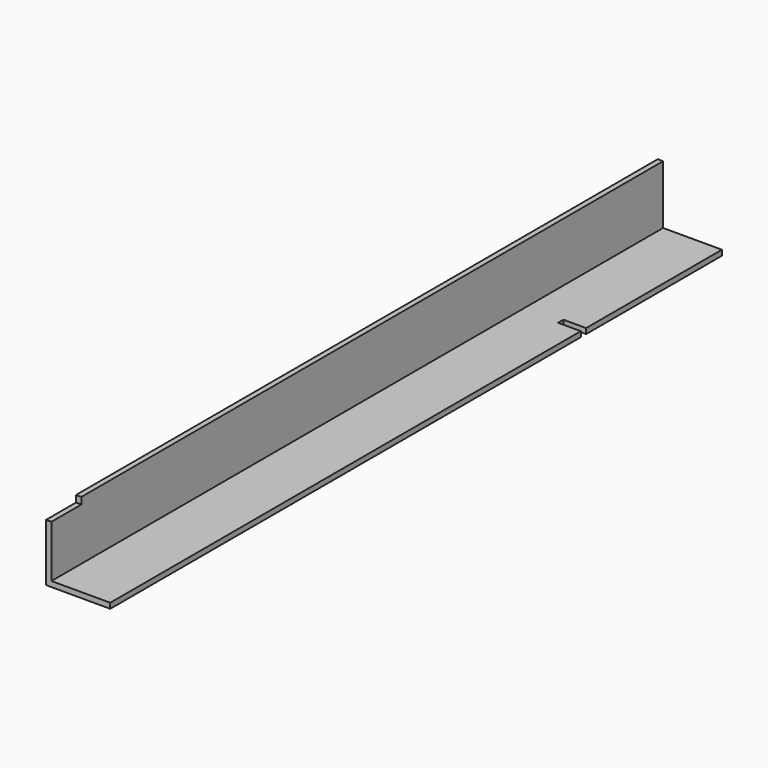
from build123d import *

# Parameters (mm, degrees)
F1_DEPTH = 454.025
F3_W     = 22.225
F3_H     = 3.96875
F4_DEPTH = 25.4
F5_W     = 13.49375
F5_H     = 3.96875
F6_DEPTH = 25.4


with BuildPart() as f1:
    # F0 (on Front) → F1 (new body)
    with BuildSketch(Plane.XZ):
        Polygon((-18.553972, 20.450408), (-21.728972, 20.450408), (-21.728972, -17.649592), (16.371028, -17.649592), (16.371028, -14.474592), (-18.553972, -14.474592), align=None)
    extrude(amount=F1_DEPTH)

    # F3 (on face) → F4 (cut)
    with BuildSketch(Plane(origin=(-21.728972, 0, 0), x_dir=(0, -1, 0), z_dir=(-1, 0, 0))):
        with Locations((442.9125, 18.466033)):
            Rectangle(F3_W, F3_H)
    extrude(amount=-F4_DEPTH, mode=Mode.SUBTRACT)

    # F5 (on face) → F6 (cut)
    with BuildSketch(Plane.XY.offset(-14.474592)):
        with Locations((9.624153, -102.790625)):
            Rectangle(F5_W, F5_H)
    extrude(amount=-F6_DEPTH, mode=Mode.SUBTRACT)


solid = f1.part
